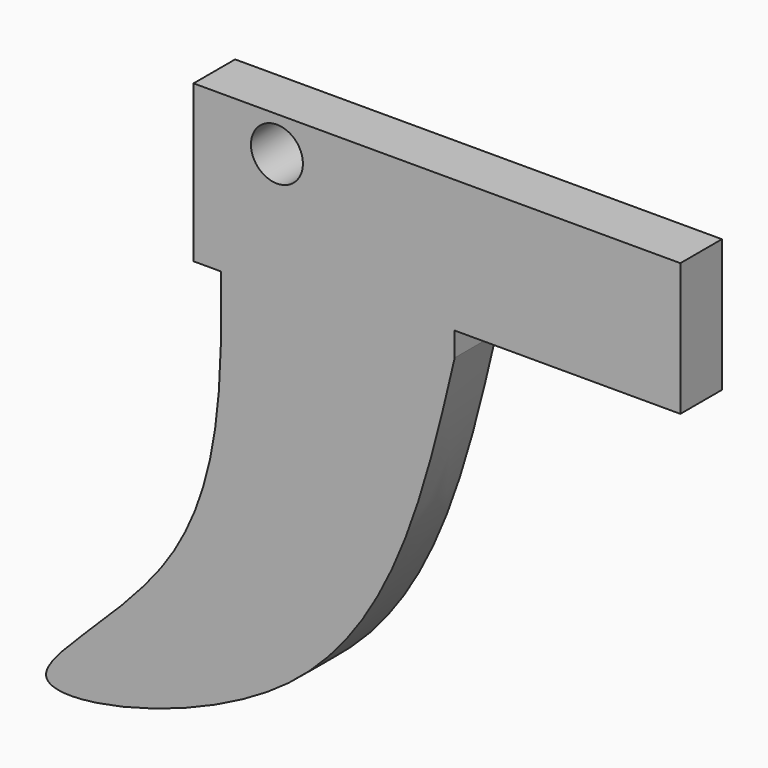
from build123d import *

# Parameters (mm, degrees)
F0_W     = 5.5167693645
F0_H     = 3.2440796494
F1_DEPTH = 1.27
F2_D     = 1.27


with BuildPart() as f1:
    # F0 (on Front) → F1 (new body)
    with BuildSketch(Plane.XZ):
        Polygon((20.3945077956, 19.8642592877), (14.0100391582, 19.8642592877), (14.0100391582, 19.0045982599), (14.0100391582, 16.0335786641), (14.6823693067, 16.0335786641), (20.3945077956, 16.0335786641), (20.3945077956, 16.6201796383), align=None)
        with Locations((23.1528924778, 18.242219463)):
            Rectangle(F0_W, F0_H)
        with BuildLine():
            add(Edge.make_bspline(
                [(14.6823693067, 16.0335786641), (14.6976111513, 13.688898195), (14.7252822297, 9.4322062756), (7.808894748, 4.7272378155), (18.2668424983, 6.9694097061), (19.635350748, 12.7994573226), (20.3945077956, 16.0335786641)],
                knots=[0, 0, 0, 0, 0.2543863298, 0.4618301934, 0.7014593068, 1, 1, 1, 1], degree=3))
            Line((20.3945077956, 16.0335786641), (14.6823693067, 16.0335786641))
        make_face()
    extrude(amount=F1_DEPTH)

    # F2 (through all)
    with Locations(Plane(origin=(0, 0, 0), x_dir=(1, 0, 0), z_dir=(0, 1, 0))):
        with Locations((16.0479154438, -19.0045982599)):
            Hole(F2_D / 2)


solid = f1.part
